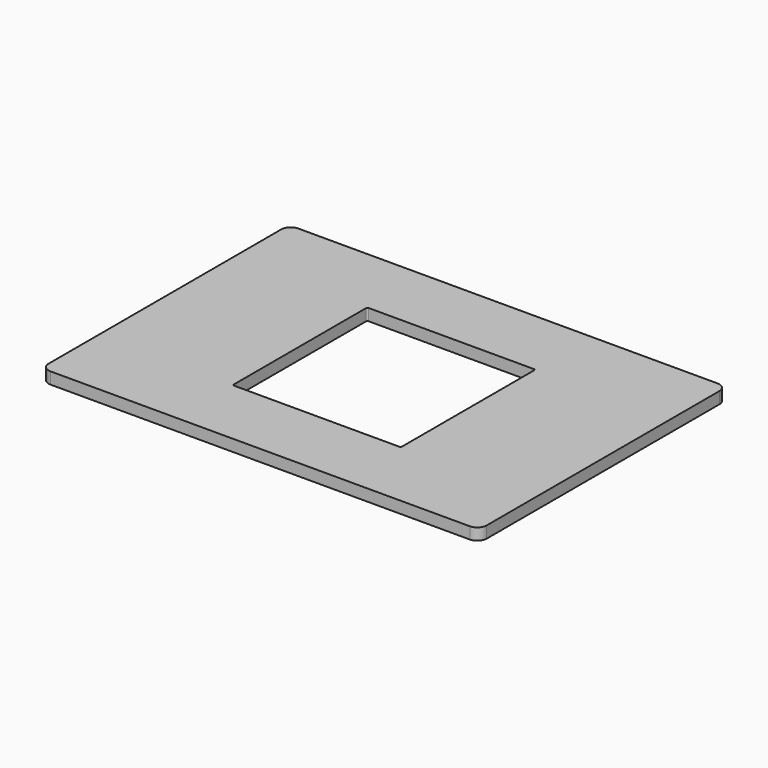
from build123d import *

# Parameters (mm, degrees)
F0_W     = 238.125
F0_H     = 168.275
F1_DEPTH = 6.35
F2_R     = 5.08
F3_W     = 88.9
F3_H     = 88.9
F4_DEPTH = 25.4
F6_DEPTH = 25.4


with BuildPart() as f1:
    # F0 (on Top) → F1 (new body)
    with BuildSketch(Plane.XY):
        Rectangle(F0_W, F0_H)
    extrude(amount=F1_DEPTH)

    # F2
    f2_edges = [f1.edges().sort_by_distance(p)[0] for p in [
        (119.0625, 84.1375, 3.175),
        (-119.0625, 84.1375, 3.175),
        (119.0625, -84.1375, 3.175),
        (-119.0625, -84.1375, 3.175),
    ]]
    fillet(f2_edges, radius=F2_R)

    # F3 (on face) → F4 (cut)
    with BuildSketch(Plane.XY.offset(6.35)):
        Rectangle(F3_W, F3_H)
    extrude(amount=-F4_DEPTH, mode=Mode.SUBTRACT)

    # F5 (on face) → F6 (cut)
    with BuildSketch(Plane.XY.offset(6.35)):
        with BuildLine():
            ThreePointArc((45.72, 44.9326), (45.489376, 45.489376), (44.9326, 45.72))
            Line((44.9326, 45.72), (-44.9326, 45.72))
            ThreePointArc((-44.9326, 45.72), (-45.489376, 45.489376), (-45.72, 44.9326))
            Line((-45.72, 44.9326), (-45.72, -44.9326))
            ThreePointArc((-45.72, -44.9326), (-45.489376, -45.489376), (-44.9326, -45.72))
            Line((-44.9326, -45.72), (44.9326, -45.72))
            ThreePointArc((44.9326, -45.72), (45.489376, -45.489376), (45.72, -44.9326))
            Line((45.72, -44.9326), (45.72, 44.9326))
        make_face()
    extrude(amount=-F6_DEPTH, mode=Mode.SUBTRACT)


solid = f1.part
